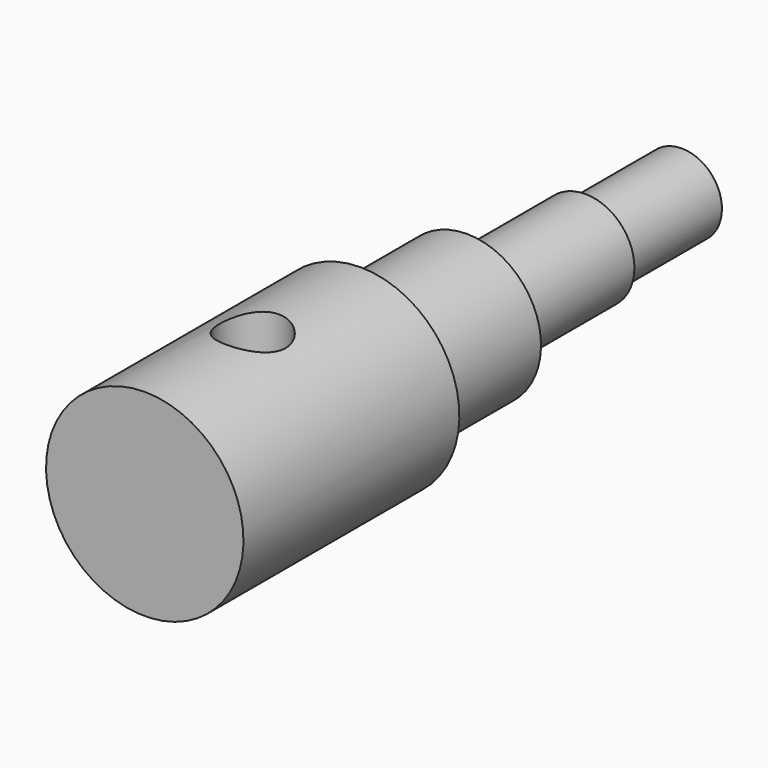
from build123d import *

# Parameters (mm, degrees)
F0_W          = 23.241
F0_H          = 7.747
F2_R          = 6.35
F3_DEPTH      = 19.051
F3_DEPTH_BACK = 19.051


with BuildPart() as f1:
    # F0 (on Right) → F1 (revolve)
    with BuildSketch(Plane.YZ):
        Polygon((52.07, 19.05), (0, 19.05), (0, 0), (52.07, 0), (52.07, 14.2875), align=None)
        Polygon((77.724, 14.2875), (52.07, 14.2875), (52.07, 0), (77.724, 0), (77.724, 9.4488), align=None)
        Polygon((77.724, 9.4488), (77.724, 0), (106.299, 0), (106.299, 7.747), (106.299, 9.4488), align=None)
        with Locations((117.9195, 3.8735)):
            Rectangle(F0_W, F0_H)
    revolve(axis=Axis((0, 26.035, 0), (0, 1, 0)))

    # F2 (on Top) → F3 (cut, two sides)
    with BuildSketch(Plane.XY) as f3_sk:
        with Locations((0, 26.035)):
            Circle(F2_R)
    extrude(amount=-F3_DEPTH, mode=Mode.SUBTRACT)
    extrude(f3_sk.sketch, amount=F3_DEPTH_BACK, mode=Mode.SUBTRACT)


solid = f1.part
